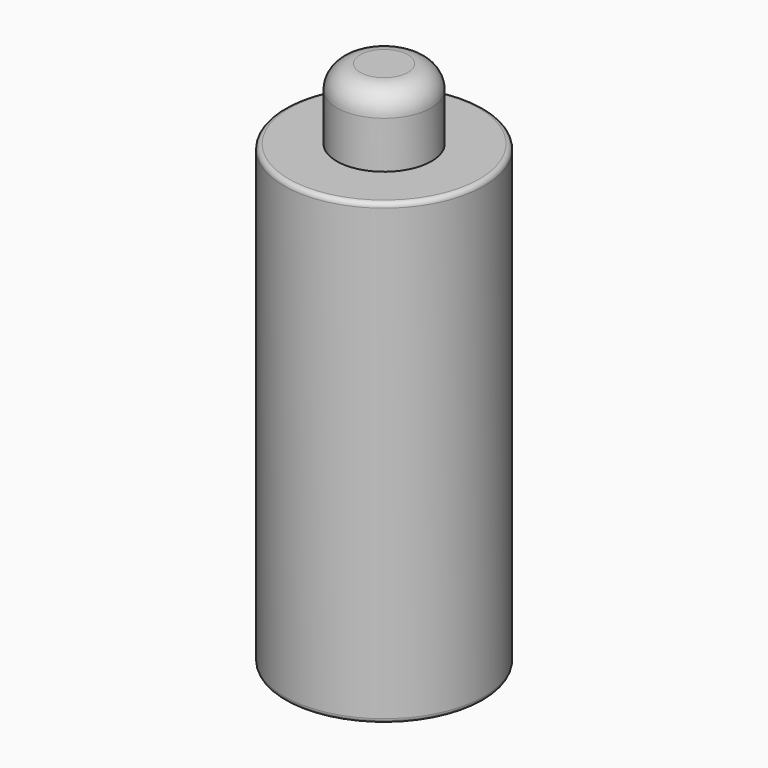
from build123d import *

# Parameters (mm, degrees)
F0_R     = 42.5
F1_DEPTH = 195
F2_R     = 20.142482
F3_DEPTH = 30
F4_R     = 10
F5_R     = 6
F6_DEPTH = 16
F7_R     = 2


with BuildPart() as f1:
    # F0 (on Top) → F1 (new body)
    with BuildSketch(Plane.XY):
        Circle(F0_R)
    extrude(amount=F1_DEPTH)

    # F2 (on face) → F3 (join)
    with BuildSketch(Plane.XY.offset(195)):
        Circle(F2_R)
    extrude(amount=F3_DEPTH)

    # F4
    f4_edges = [f1.edges().sort_by_distance(p)[0] for p in [
        (-20.142482, 0, 225),
    ]]
    fillet(f4_edges, radius=F4_R)

    # F5 (on face) → F6 (join)
    with BuildSketch(Plane(origin=(0, 0, 0), x_dir=(1, 0, 0), z_dir=(0, 0, -1))):
        Circle(F5_R)
    extrude(amount=F6_DEPTH)

    # F7
    f7_edges = [f1.edges().sort_by_distance(p)[0] for p in [
        (-42.5, 0, 195),
        (-42.5, 0, 0),
    ]]
    fillet(f7_edges, radius=F7_R)


solid = f1.part
